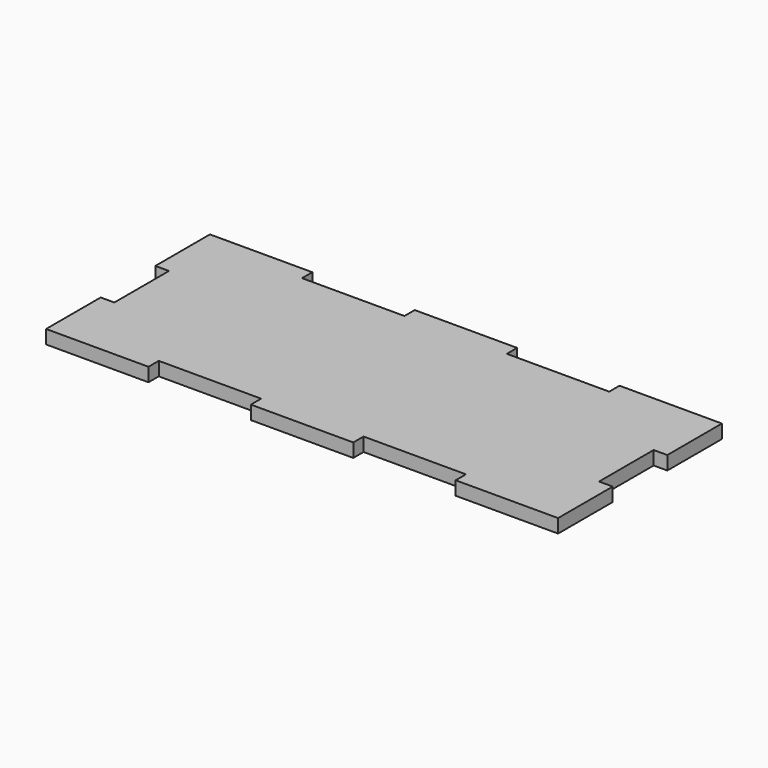
from build123d import *

# Parameters (mm, degrees)
F1_DEPTH = 4


with BuildPart() as f1:
    # F0 (on Top) → F1 (new body)
    with BuildSketch(Plane.XY):
        Polygon((0, 20), (0, 0), (30, 0), (30, 3.765809), (60, 3.765809), (60, 0), (90, 0), (90, 3.765809), (120, 3.765809), (120, 0), (150, 0), (150, 20), (146, 20), (146, 40), (150, 40), (150, 60), (120, 60), (120, 56.234191), (90, 56.234191), (90, 60), (60, 60), (60, 56.234191), (30, 56.234191), (30, 60), (0, 60), (0, 40), (4, 40), (4, 20), align=None)
    extrude(amount=F1_DEPTH)


solid = f1.part
